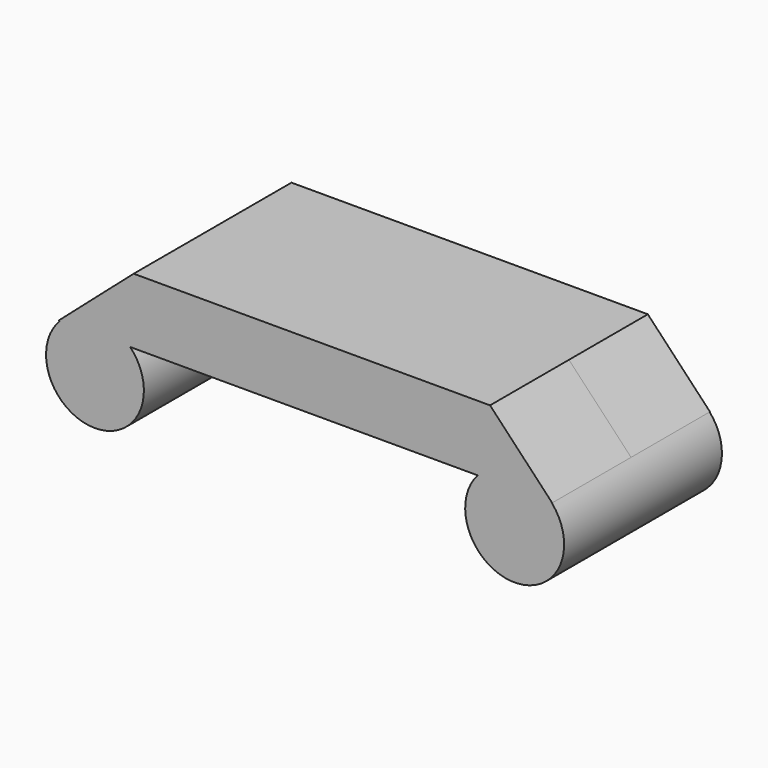
from build123d import *

# Parameters (mm, degrees)
F1_DEPTH = 25.4
F2_DEPTH = 25.4
F3_R     = 12.741787
F4_DEPTH = 25.4
F5_DEPTH = 25.4
F3_R_2   = 12.597892
F6_DEPTH = 25.4
F7_DEPTH = 25.4


with BuildPart() as f1:
    # F0 (on Front) → F1 (new body)
    with BuildSketch(Plane.XZ):
        Polygon((-48.609849, 16.907774), (-67.933016, 0), (59.177209, 0), (43.175209, 16.907774), align=None)
    extrude(amount=F1_DEPTH)

    # F1_face (on face) → F2 (join)
    with BuildSketch(Plane(origin=(-3.592276, 0, 7.999126), x_dir=(1, 0, 0), z_dir=(0, 1, 0))):
        Polygon((-64.34074, 7.999126), (-45.017573, -8.908648), (46.767485, -8.908648), (62.769484, 7.999126), align=None)
    extrude(amount=F2_DEPTH)

    # F3 (on Front) → F4 (join)
    with BuildSketch(Plane.XZ):
        with Locations((49.515624, -8.453887)):
            Circle(F3_R)
    extrude(amount=F4_DEPTH)

    # F4_face (on face) → F5 (join)
    with BuildSketch(Plane(origin=(49.515624, 0, -9.72788), x_dir=(1, 0, 0), z_dir=(0, 1, 0))):
        with BuildLine():
            ThreePointArc((9.533359, -9.72788), (0, 11.467794), (-9.533359, -9.72788))
            Line((-9.533359, -9.72788), (9.533359, -9.72788))
        make_face()
    extrude(amount=F5_DEPTH)

    # F3 (on Front) → F6 (join)
    with BuildSketch(Plane.XZ):
        with Locations((-58.573361, -8.755811)):
            Circle(F3_R_2)
        with Locations((49.515624, -8.453887)):
            Circle(F3_R)
    extrude(amount=F6_DEPTH)

    # F6_face (on face) → F7 (join)
    with BuildSketch(Plane(origin=(-58.573361, 0, -9.855357), x_dir=(1, 0, 0), z_dir=(0, 1, 0))):
        with BuildLine():
            ThreePointArc((9.05774, -9.855357), (0, 11.498346), (-9.05774, -9.855357))
            Line((-9.05774, -9.855357), (9.05774, -9.855357))
        make_face()
    extrude(amount=F7_DEPTH)


solid = f1.part
